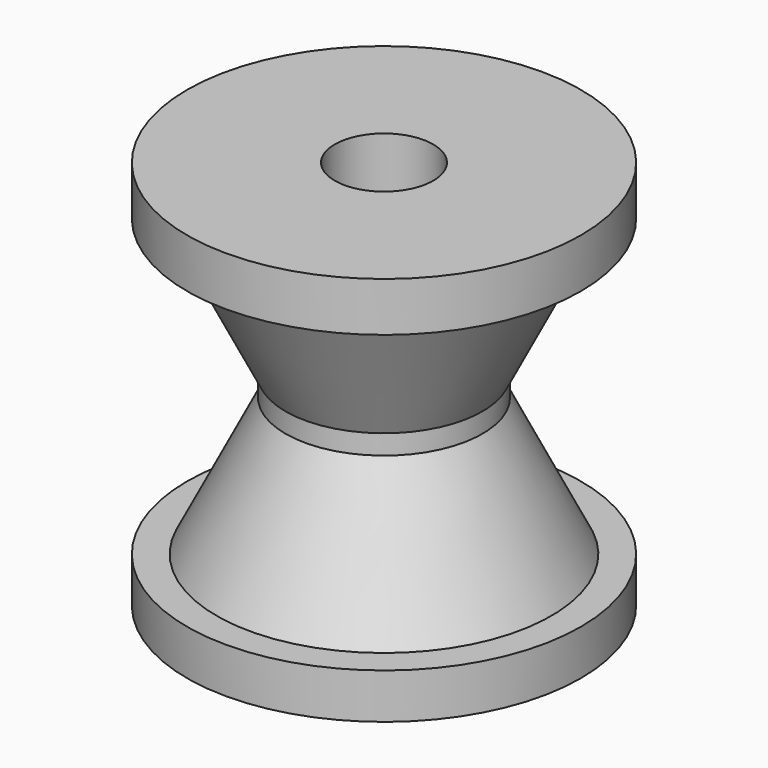
from build123d import *

# Parameters (mm, degrees)
F0_W     = 12.7
F0_H     = 6.35
F0_W_2   = 6.35
F0_H_2   = 38.1
F0_H_3   = 2.4236633693
F2_SIZE2 = 8.89
F2_SIZE  = 17.78
F3_SIZE2 = 0.508
F3_SIZE  = 1.27


with BuildPart() as f1:
    # F0 (on Front) → F1 (revolve)
    with BuildSketch(Plane.XZ):
        with Locations((-19.05, -28.2841619736)):
            Rectangle(F0_W, F0_H)
        with Locations((-9.525, -6.0591619736)):
            Rectangle(F0_W_2, F0_H_2)
        with Locations((-9.525, -28.2841619736)):
            Rectangle(F0_W_2, F0_H)
        with Locations((-9.525, 14.2026697111)):
            Rectangle(F0_W_2, F0_H_3)
        with Locations((-19.05, 14.2026697111)):
            Rectangle(F0_W, F0_H_3)
        Polygon((-25.4, 15.4145013957), (-12.7, 15.4145013957), (-6.35, 15.4145013957), (-6.35, 19.3408380264), (-25.4, 19.3408380264), align=None)
    revolve(axis=Axis((0, 0, 6.5382700413), (0, 0, -1)))

    # F2
    f2_edges = [f1.edges().sort_by_distance(p)[0] for p in [
        (12.7, 0, 12.990838),
        (12.7, 0, -25.109162),
    ]]
    f2_side = f1.faces().sort_by_distance((12.7, 0, -6.059162))[0]
    chamfer(f2_edges, length=F2_SIZE, length2=F2_SIZE2, reference=f2_side)

    # F3
    f3_edges = [f1.edges().sort_by_distance(p)[0] for p in [
        (25.4, 0, -31.459162),
    ]]
    f3_side = f1.faces().sort_by_distance((24.68158, 0, -31.459162))[0]
    chamfer(f3_edges, length=F3_SIZE, length2=F3_SIZE2, reference=f3_side)


solid = f1.part
